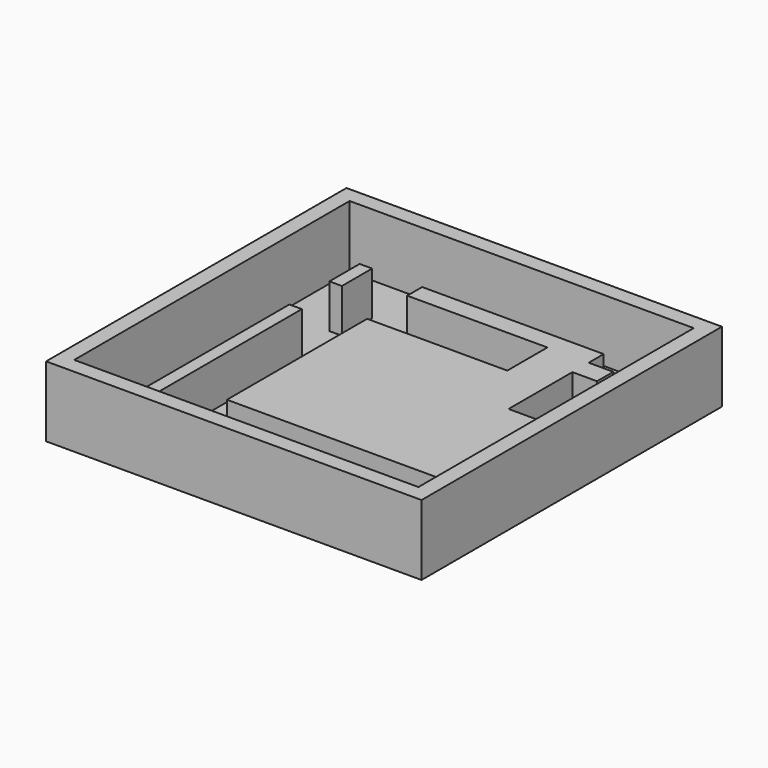
from build123d import *

# Parameters (mm, degrees)
F0_W     = 38.1
F0_H     = 38.1
F1_DEPTH = 0.79375
F2_W     = 38.1
F2_H     = 38.1
F2_W_2   = 34.925
F2_H_2   = 34.925
F3_DEPTH = 6.35
F4_W     = 14.224
F4_H     = 1.898194
F4_W_2   = 2.502164
F4_H_2   = 2.067971
F4_W_3   = 5.951583
F4_H_3   = 0.006806
F4_W_4   = 18.415
F4_H_4   = 2.333408
F5_DEPTH = 4.445


with BuildPart() as f1:
    # F0 (on Top) → F1 (new body)
    with BuildSketch(Plane.XY):
        with Locations((-5.390748, 5.977843)):
            Rectangle(F0_W, F0_H)
    extrude(amount=F1_DEPTH)

    # F2 (on face) → F3 (join)
    with BuildSketch(Plane.XY.offset(0.79375)):
        with Locations((-5.390748, 5.977843)):
            Rectangle(F2_W, F2_H)
        with Locations((-5.390748, 5.977843)):
            Rectangle(F2_W_2, F2_H_2, mode=Mode.SUBTRACT)
    extrude(amount=F3_DEPTH)

    # F4 (on face) → F5 (join)
    with BuildSketch(Plane.XY.offset(0.79375)):
        Polygon((-17.773248, -11.484657), (-16.99117, -11.484657), (-16.503248, -11.484657), (-16.503248, 9.445464), (-17.773248, 9.445464), align=None)
        Polygon((-16.503248, 18.360343), (-16.99117, 18.360343), (-17.773248, 18.360343), (-17.773248, 17.845441), (-16.503248, 17.845441), align=None)
        Polygon((-16.503248, 17.845441), (-17.773248, 17.845441), (-17.773248, 16.637499), (-17.773248, 14.525464), (-16.503248, 14.525464), align=None)
        with Locations((-4.311248, 17.411246)):
            Rectangle(F4_W, F4_H)
        Polygon((6.991752, 18.360343), (2.800752, 18.360343), (2.800752, 16.462149), (2.800752, 11.375343), (6.991752, 11.375343), (6.991752, 14.394178), (6.991752, 16.462149), align=None)
        Polygon((6.991752, 11.375343), (2.800752, 11.375343), (-2.279248, 11.375343), (-8.230831, 11.375343), (-11.423248, 11.375343), (-11.423248, 6.295343), (6.991752, 6.295343), align=None)
        with Locations((8.242834, 15.428164)):
            Rectangle(F4_W_2, F4_H_2)
        with Locations((-5.25504, 11.378746)):
            Rectangle(F4_W_3, F4_H_3)
        Polygon((12.071752, 6.295343), (6.991752, 6.295343), (6.991752, 3.961935), (-11.423248, 3.961935), (-11.423248, -6.404657), (12.071752, -6.404657), align=None)
        with Locations((-2.215748, 5.128639)):
            Rectangle(F4_W_4, F4_H_4)
    extrude(amount=F5_DEPTH)


solid = f1.part
